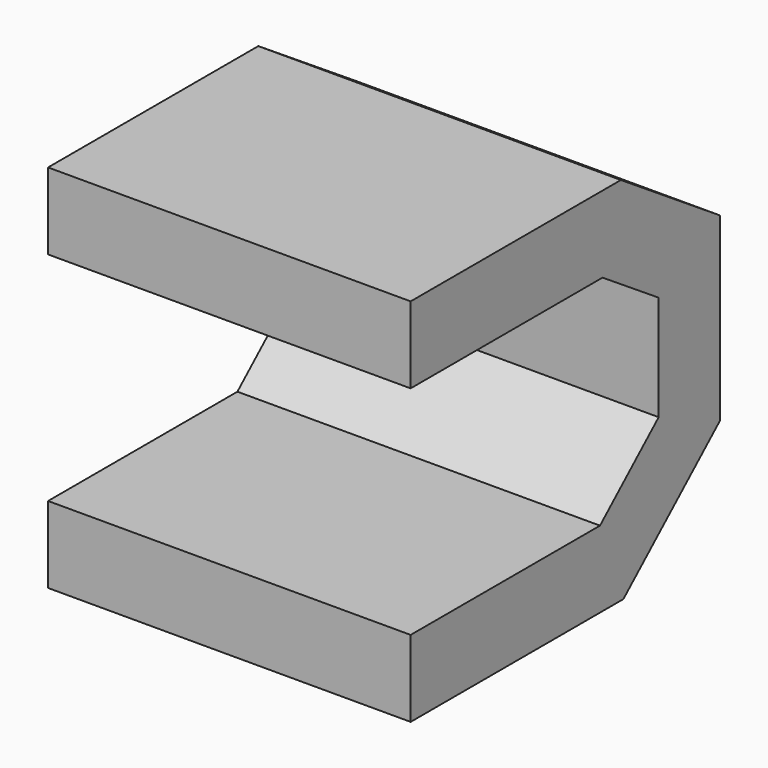
from build123d import *

# Parameters (mm, degrees)
F0_W = 21.840820089
F0_H = 4.614258185


with BuildPart() as f2:
    # F2: sweep along a path in F1
    with BuildLine(Plane.YZ) as f2_path:
        Line((0, 0), (15.1381809264, 0))
        Line((15.1381809264, 0), (20.9829062223, -3.8452150766))
        Line((20.9829062223, -3.8452150766), (20.9829062223, -12.458496727))
        Line((20.9829062223, -12.458496727), (15.1381809264, -17.6879893988))
        Line((15.1381809264, -17.6879893988), (0, -17.6879893988))
    # F0 (on Front) → F2 (sweep)
    with BuildSketch(Plane.XZ):
        Rectangle(F0_W, F0_H)
    sweep(path=f2_path.line, transition=Transition.RIGHT)


solid = f2.part
